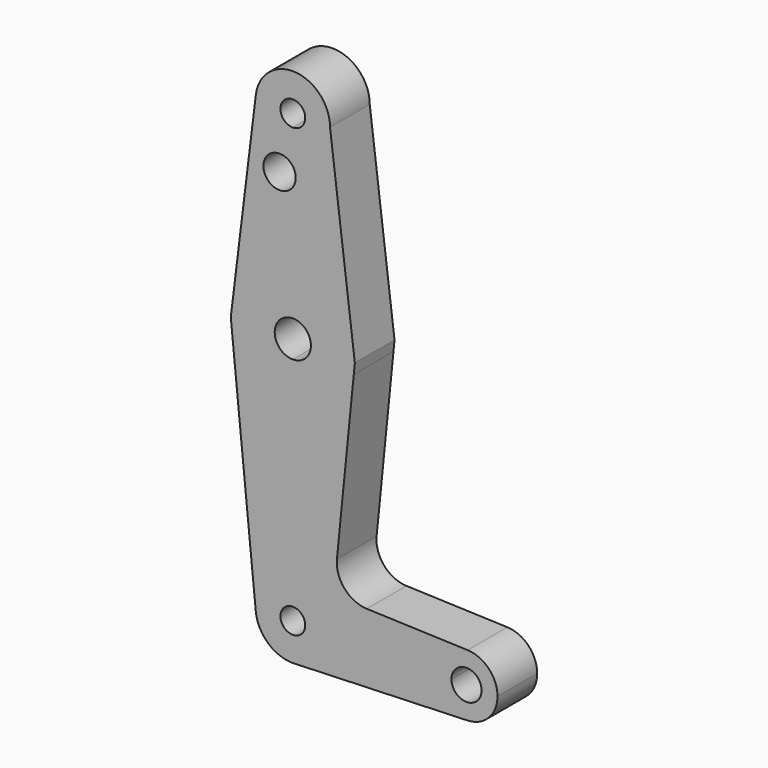
from build123d import *

# Parameters (mm, degrees)
F1_DEPTH = 12.7
F2_DEPTH = 3.048


with BuildPart() as f1:
    # F0 (on Front) → F1 (new body)
    with BuildSketch(Plane.XZ):
        with BuildLine():
            Line((0, 51.2216350224), (0, 53.6040686))
            ThreePointArc((0, 53.6040686), (-7.1342213589, 56.8180852692), (-9.4538482046, 64.2911267413))
            Line((-9.4538482046, 64.2911267413), (-15.3375121761, 16.4249623056))
            ThreePointArc((-15.3375121761, 16.4249623056), (-9.6693668982, 24.9195002363), (0, 28.2040686))
            Line((0, 28.2040686), (0, 46.4869021777))
            ThreePointArc((0, 46.4869021777), (-7.5126241699, 48.8542686), (0, 51.2216350224))
        make_face()
        with BuildLine():
            ThreePointArc((9.525, 63.1290686), (6.7351920908, 56.3938765092), (0, 53.6040686))
            Line((0, 53.6040686), (0, 51.2216350224))
            ThreePointArc((0, 51.2216350224), (0.5550872912, 50.0953307458), (0.7460008182, 48.8542686))
            ThreePointArc((0.7460008182, 48.8542686), (0.5550872912, 47.6132064543), (0, 46.4869021777))
            Line((0, 46.4869021777), (0, 28.2040686))
            ThreePointArc((0, 28.2040686), (9.6519445425, 24.9328613447), (15.3261239176, 16.4673714724))
            Line((15.3261239176, 16.4673714724), (9.525, 63.1290686))
        make_face()
        with BuildLine():
            ThreePointArc((-9.4538482046, 64.2911267413), (-7.1342213589, 56.8180852692), (0, 53.6040686))
            ThreePointArc((0, 53.6040686), (6.7351920908, 56.3938765092), (9.525, 63.1290686))
            ThreePointArc((9.525, 63.1290686), (0.5821171922, 72.6362640106), (-9.4538482046, 64.2911267413))
        make_face()
        with BuildLine():
            ThreePointArc((3.175, 63.1290686), (2.2450640303, 60.8840045698), (0, 59.9540686))
            ThreePointArc((0, 59.9540686), (-2.2450640303, 65.3741326303), (3.175, 63.1290686))
        make_face(mode=Mode.SUBTRACT)
        with BuildLine():
            Line((15.8728781179, 12.0695204249), (15.3261239176, 16.4673714724))
            ThreePointArc((15.3261239176, 16.4673714724), (9.6519445425, 24.9328613447), (0, 28.2040686))
            Line((0, 28.2040686), (0, 16.9626167222))
            ThreePointArc((0, 16.9626167222), (3.2764132981, 15.6054818982), (4.6335481221, 12.3290686))
            ThreePointArc((4.6335481221, 12.3290686), (3.2764132981, 9.0526553019), (0, 7.6955204779))
            Line((0, 7.6955204779), (0, -3.5459314))
            ThreePointArc((0, -3.5459314), (10.1482027408, 0.1213003301), (15.6077993594, 9.4286851503))
            Line((15.6077993594, 9.4286851503), (15.8728781179, 12.0695204249))
        make_face()
        with BuildLine():
            ThreePointArc((0, 28.2040686), (-9.6693668982, 24.9195002363), (-15.3375121761, 16.4249623056))
            Line((-15.3375121761, 16.4249623056), (-15.8728782216, 12.0695267661))
            Line((-15.8728782216, 12.0695267661), (-15.6120639675, 9.4517289128))
            ThreePointArc((-15.6120639675, 9.4517289128), (-10.1572106768, 0.1287941659), (0, -3.5459314))
            Line((0, -3.5459314), (0, 7.6955204779))
            ThreePointArc((0, 7.6955204779), (-4.6335481221, 12.3290686), (0, 16.9626167222))
            Line((0, 16.9626167222), (0, 28.2040686))
        make_face()
        with BuildLine():
            ThreePointArc((0, -3.5459314), (-10.1572106768, 0.1287941659), (-15.6120639675, 9.4517289128))
            Line((-15.6120639675, 9.4517289128), (-9.4780747266, -52.1152430422))
            ThreePointArc((-9.4780747266, -52.1152430422), (-7.0611682246, -44.7783162619), (0, -41.6459314))
            Line((0, -41.6459314), (0, -3.5459314))
        make_face()
        with BuildLine():
            ThreePointArc((0, -41.6459314), (-7.0611682246, -44.7783162619), (-9.4780747266, -52.1152430422))
            ThreePointArc((-9.4780747266, -52.1152430422), (-6.3926151381, -58.2320996246), (0, -60.6959314))
            Line((0, -60.6959314), (0.6773435479, -60.6718171859))
            ThreePointArc((0.6773435479, -60.6718171859), (6.9705567315, -57.6622304882), (9.525, -51.1709314))
            Line((9.525, -51.1709314), (3.175, -51.1709314))
            ThreePointArc((3.175, -51.1709314), (-2.2450640303, -53.4159954302), (0, -47.9959314))
            Line((0, -47.9959314), (0, -41.6459314))
        make_face()
        with BuildLine():
            ThreePointArc((9.525, -51.1709314), (6.7351920908, -44.4357393092), (0, -41.6459314))
            Line((0, -41.6459314), (0, -47.9959314))
            ThreePointArc((0, -47.9959314), (2.2450640303, -48.9258673697), (3.175, -51.1709314))
            Line((3.175, -51.1709314), (9.525, -51.1709314))
        make_face()
        with BuildLine():
            Line((11.290697226, -33.5802517612), (15.6077993594, 9.4286851503))
            ThreePointArc((15.6077993594, 9.4286851503), (10.1482027408, 0.1213003301), (0, -3.5459314))
            Line((0, -3.5459314), (0, -41.6459314))
            ThreePointArc((0, -41.6459314), (6.7351920908, -44.4357393092), (9.525, -51.1709314))
            Line((9.525, -51.1709314), (36.5125, -51.1709314))
            ThreePointArc((36.5125, -51.1709314), (38.9380895153, -45.459298616), (44.7324052746, -43.2384567854))
            Line((44.7324052746, -43.2384567854), (18.9182890587, -42.3194443799))
            ThreePointArc((18.9182890587, -42.3194443799), (13.2114936015, -39.60206338), (11.290697226, -33.5802517612))
        make_face()
        with BuildLine():
            Line((36.5125, -51.1709314), (9.525, -51.1709314))
            ThreePointArc((9.525, -51.1709314), (6.9705567315, -57.6622304882), (0.6773435479, -60.6718171859))
            Line((0.6773435479, -60.6718171859), (44.7324052746, -59.1034060145))
            ThreePointArc((44.7324052746, -59.1034060145), (38.9380895153, -56.8825641839), (36.5125, -51.1709314))
        make_face()
        with BuildLine():
            ThreePointArc((52.3875, -51.1709314), (50.1616327839, -45.6590209152), (44.7324052746, -43.2384567854))
            ThreePointArc((44.7324052746, -43.2384567854), (38.9380895153, -45.459298616), (36.5125, -51.1709314))
            ThreePointArc((36.5125, -51.1709314), (38.9380895153, -56.8825641839), (44.7324052746, -59.1034060145))
            ThreePointArc((44.7324052746, -59.1034060145), (50.1616327839, -56.6828418847), (52.3875, -51.1709314))
        make_face()
        with BuildLine():
            ThreePointArc((48.30468059, -51.1709314), (44.45, -55.02561199), (40.59531941, -51.1709314))
            ThreePointArc((40.59531941, -51.1709314), (44.45, -47.3162508099), (48.30468059, -51.1709314))
        make_face(mode=Mode.SUBTRACT)
    extrude(amount=F1_DEPTH)

    # F0 (on Front) → F2 (join)
    with BuildSketch(Plane.XZ):
        with BuildLine():
            ThreePointArc((9.525, -51.1709314), (6.7351920908, -44.4357393092), (0, -41.6459314))
            Line((0, -41.6459314), (0, -47.9959314))
            ThreePointArc((0, -47.9959314), (2.2450640303, -48.9258673697), (3.175, -51.1709314))
            Line((3.175, -51.1709314), (9.525, -51.1709314))
        make_face()
    extrude(amount=F2_DEPTH)


solid = f1.part
